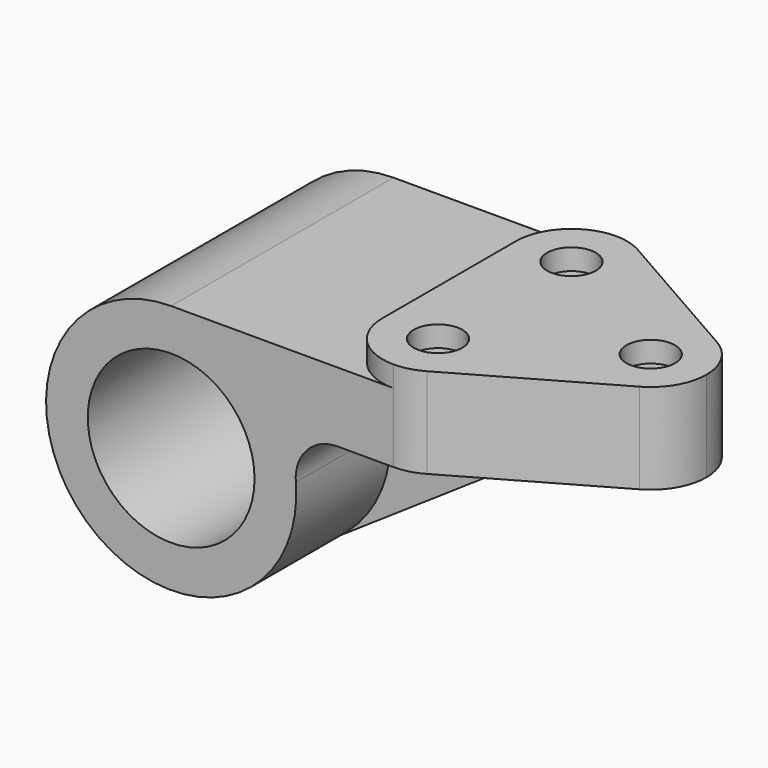
from build123d import *

# Parameters (mm, degrees)
F0_R     = 19.05
F1_DEPTH = 63.5
F2_START = -26.9875
F2_DEPTH = 9.525
F3_R     = 5.5626
F4_DEPTH = 4.7752
F5_DEPTH = 25.4


with BuildPart() as f1:
    # F0 (on Front) → F1 (new body)
    with BuildSketch(Plane.XZ):
        with BuildLine():
            Line((38.1, 28.575), (0, 28.575))
            ThreePointArc((0, 28.575), (-27.3235693319, -8.3638020041), (15.9950252975, -23.6788891364))
            ThreePointArc((15.9950252975, -23.6788891364), (25.7719232537, -12.3425522809), (28.4756083945, 2.38125))
            ThreePointArc((28.4756083945, 2.38125), (30.9572676717, 9.6234554837), (37.9674778593, 12.7))
            Line((37.9674778593, 12.7), (69.85, 12.7))
            Line((69.85, 12.7), (96.8502, 12.7))
            Line((96.8502, 12.7), (96.8502, 33.3502))
            Line((96.8502, 33.3502), (38.1, 33.3502))
            Line((38.1, 33.3502), (38.1, 28.575))
        make_face()
        Circle(F0_R, mode=Mode.SUBTRACT)
    extrude(amount=-F1_DEPTH)

    # F0 (on Front) → F2 (join)
    with BuildSketch(Plane.XZ.offset(F2_START)):
        with BuildLine():
            ThreePointArc((28.4756083945, 2.38125), (25.7719232537, -12.3425522809), (15.9950252975, -23.6788891364))
            Line((15.9950252975, -23.6788891364), (69.85, 12.7))
            Line((69.85, 12.7), (37.9674778593, 12.7))
            ThreePointArc((37.9674778593, 12.7), (30.9572676717, 9.6234554837), (28.4756083945, 2.38125))
        make_face()
    extrude(amount=-F2_DEPTH)

    # F3 (on face) → F4 (cut)
    with BuildSketch(Plane.XY.offset(33.3502)):
        with BuildLine():
            Line((38.1, 0), (50.8, 0))
            ThreePointArc((50.8, 0), (41.8197438789, 3.7197438789), (38.1, 12.7))
            Line((38.1, 12.7), (38.1, 0))
        make_face()
        with BuildLine():
            ThreePointArc((38.1, 50.8), (41.8197438789, 59.7802561211), (50.8, 63.5))
            Line((50.8, 63.5), (38.1, 63.5))
            Line((38.1, 63.5), (38.1, 50.8))
        make_face()
        with Locations((50.8, 12.7)):
            Circle(F3_R)
        with Locations((50.8, 50.8)):
            Circle(F3_R)
        with Locations((84.1502, 31.75)):
            Circle(F3_R)
    extrude(amount=-F4_DEPTH, mode=Mode.SUBTRACT)

    # F3 (on face) → F5 (cut)
    with BuildSketch(Plane.XY.offset(33.3502)):
        with BuildLine():
            ThreePointArc((96.8502, 31.75), (95.1340352623, 25.3746284085), (90.4493554441, 20.7222785358))
            Line((90.4493554441, 20.7222785358), (57.0991554441, 1.6722785358))
            ThreePointArc((57.0991554441, 1.6722785358), (54.0586759125, 0.4251871176), (50.8, 0))
            Line((50.8, 0), (96.8502, 0))
            Line((96.8502, 0), (96.8502, 31.75))
        make_face()
        with BuildLine():
            ThreePointArc((90.4493554441, 42.7777214642), (95.1340352623, 38.1253715915), (96.8502, 31.75))
            Line((96.8502, 31.75), (96.8502, 63.5))
            Line((96.8502, 63.5), (50.8, 63.5))
            ThreePointArc((50.8, 63.5), (54.0586759125, 63.0748128824), (57.0991554441, 61.8277214642))
            Line((57.0991554441, 61.8277214642), (90.4493554441, 42.7777214642))
        make_face()
    extrude(amount=-F5_DEPTH, mode=Mode.SUBTRACT)


solid = f1.part
